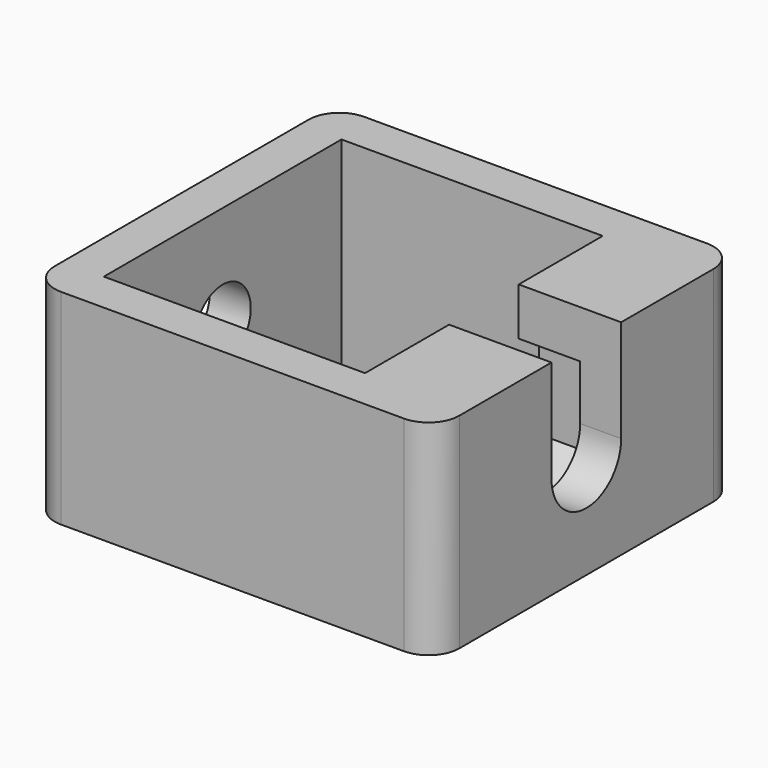
from build123d import *

# Parameters (mm, degrees)
SKETCH004_W     = 39.5
SKETCH004_H     = 37
SKETCH004_W_2   = 25.5
SKETCH004_H_2   = 29
PAD002_DEPTH    = 20
SKETCH005_R     = 3.425
HOLE003_DEPTH   = 5
HOLE003_TIPS_R  = 3.425
SKETCH006_R     = 4.25
HOLE004_DEPTH   = 15
HOLE004_TIPS_R  = 4.25
POCKET_DEPTH    = 6
SKETCH008_W     = 8.5
SKETCH008_H     = 10
POCKET001_DEPTH = 15
FILLET003_R     = 3


with BuildPart() as part:
    # Sketch004 → Pad002 (new body)
    with BuildSketch(Plane.XY):
        with Locations((19.75, 18.5)):
            Rectangle(SKETCH004_W, SKETCH004_H)
        with Locations((16.75, 18.5)):
            Rectangle(SKETCH004_W_2, SKETCH004_H_2, mode=Mode.SUBTRACT)
    extrude(amount=PAD002_DEPTH)

    # Sketch005 (on Face4 of Pad002) → Hole003 (cut)
    with BuildSketch(Plane(origin=(0, 0, 0), x_dir=(0, -1, 0), z_dir=(-1, 0, 0))):
        with Locations((-18.5, 10)):
            Circle(SKETCH005_R)
    extrude(amount=-HOLE003_DEPTH, mode=Mode.SUBTRACT)

    # Hole003 tips → Hole003 tip 1 section 0
    with BuildSketch(Plane(origin=(5, 0, 0), x_dir=(0, -1, 0), z_dir=(-1, 0, 0)), mode=Mode.PRIVATE) as hole003_tip_1_s0:
        with Locations((-18.5, 10)):
            Circle(HOLE003_TIPS_R)
    loft([hole003_tip_1_s0.sketch, Vertex(7.057948, 18.5, 10)], mode=Mode.SUBTRACT)

    # Sketch006 (on Face3 of Hole003) → Hole004 (cut)
    with BuildSketch(Plane.YZ.offset(39.5)):
        with Locations((18.5, 10)):
            Circle(SKETCH006_R)
    extrude(amount=-HOLE004_DEPTH, mode=Mode.SUBTRACT)

    # Hole004 tips → Hole004 tip 1 section 0
    with BuildSketch(Plane.YZ.offset(24.5), mode=Mode.PRIVATE) as hole004_tip_1_s0:
        with Locations((18.5, 10)):
            Circle(HOLE004_TIPS_R)
    loft([hole004_tip_1_s0.sketch, Vertex(21.946342, 18.5, 10)], mode=Mode.SUBTRACT)

    # Sketch007 (on Face10 of Hole004) → Pocket (cut)
    with BuildSketch(Plane(origin=(29.5, 0, 0), x_dir=(0, -1, 0), z_dir=(-1, 0, 0))):
        Polygon((-11.75, 13.897114), (-18.5, 17.794229), (-25.25, 13.897114), (-25.25, 6.102886), (-18.5, 2.205771), (-11.75, 6.102886), align=None)
    extrude(amount=-POCKET_DEPTH, mode=Mode.SUBTRACT)

    # Sketch008 (on Face3 of Pocket) → Pocket001 (cut)
    with BuildSketch(Plane.YZ.offset(39.5)):
        with Locations((18.5, 15)):
            Rectangle(SKETCH008_W, SKETCH008_H)
    extrude(amount=-POCKET001_DEPTH, mode=Mode.SUBTRACT)

    # Fillet003
    fillet003_edges = [part.edges().sort_by_distance(p)[0] for p in [
        (0, 0, 10),
        (39.5, 0, 10),
        (0, 37, 10),
        (39.5, 37, 10),
    ]]
    fillet(fillet003_edges, radius=FILLET003_R)


solid = part.part
